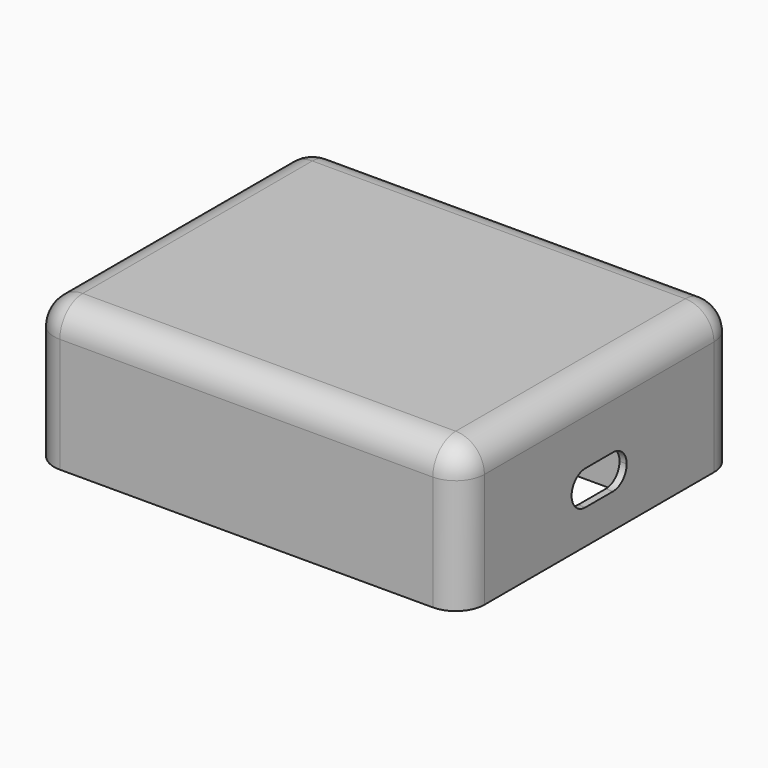
from build123d import *

# Parameters (mm, degrees)
F0_W     = 150
F0_H     = 120
F1_DEPTH = 50
F2_R     = 10
F3_W     = 92
F3_H     = 50
F4_DEPTH = 33
F5_R     = 5
F6_W     = 25
F6_H     = 10.0465611815
F7_DEPTH = 40
F9_DEPTH = 25


with BuildPart() as f1:
    # F0 (on Top) → F1 (new body)
    with BuildSketch(Plane.XY):
        Rectangle(F0_W, F0_H)
    extrude(amount=F1_DEPTH)

    # F2
    f2_edges = [f1.edges().sort_by_distance(p)[0] for p in [
        (0, -60, 50),
        (-75, 0, 50),
        (0, 60, 50),
        (75, 0, 50),
        (-75, -60, 25),
        (75, -60, 25),
        (75, 60, 25),
        (-75, 60, 25),
    ]]
    fillet(f2_edges, radius=F2_R)

    # F3 (on face) → F4 (cut)
    with BuildSketch(Plane(origin=(0, 0, 0), x_dir=(1, 0, 0), z_dir=(0, 0, -1))):
        with Locations((26.5, 0)):
            Rectangle(F3_W, F3_H)
    extrude(amount=-F4_DEPTH, mode=Mode.SUBTRACT)

    # F5
    f5_edges = [f1.edges().sort_by_distance(p)[0] for p in [
        (26.5, 25, 33),
        (72.5, 0, 33),
        (26.5, -25, 33),
        (-19.5, 0, 33),
        (-19.5, -25, 16.5),
        (72.5, -25, 16.5),
        (-19.5, 25, 16.5),
        (72.5, 25, 16.5),
    ]]
    fillet(f5_edges, radius=F5_R)

    # F6 (on face) → F7 (cut)
    with BuildSketch(Plane(origin=(0, 0, 0), x_dir=(1, 0, 0), z_dir=(0, 0, -1))):
        with Locations((-32, -14)):
            Rectangle(F6_W, F6_H)
    extrude(amount=-F7_DEPTH, mode=Mode.SUBTRACT)

    # F8 (on face) → F9 (cut)
    with BuildSketch(Plane.YZ.offset(75)):
        with BuildLine():
            Line((12, 18), (0, 18))
            ThreePointArc((0, 18), (1.7573593129, 13.7573593129), (6, 12))
            ThreePointArc((6, 12), (10.2426406871, 13.7573593129), (12, 18))
        make_face()
        with BuildLine():
            ThreePointArc((6, 24), (1.7573593129, 22.2426406871), (0, 18))
            Line((0, 18), (12, 18))
            ThreePointArc((12, 18), (10.2426406871, 22.2426406871), (6, 24))
        make_face()
        with BuildLine():
            ThreePointArc((-6, 24), (-1.7573593129, 22.2426406871), (0, 18))
            ThreePointArc((0, 18), (1.7573593129, 22.2426406871), (6, 24))
            Line((6, 24), (-6, 24))
        make_face()
        with BuildLine():
            Line((-12, 18), (0, 18))
            ThreePointArc((0, 18), (-1.7573593129, 22.2426406871), (-6, 24))
            ThreePointArc((-6, 24), (-10.2426406871, 22.2426406871), (-12, 18))
        make_face()
        with BuildLine():
            ThreePointArc((-6, 12), (-1.7573593129, 13.7573593129), (0, 18))
            Line((0, 18), (-12, 18))
            ThreePointArc((-12, 18), (-10.2426406871, 13.7573593129), (-6, 12))
        make_face()
        with BuildLine():
            ThreePointArc((6, 12), (1.7573593129, 13.7573593129), (0, 18))
            ThreePointArc((0, 18), (-1.7573593129, 13.7573593129), (-6, 12))
            Line((-6, 12), (6, 12))
        make_face()
    extrude(amount=-F9_DEPTH, mode=Mode.SUBTRACT)


solid = f1.part
